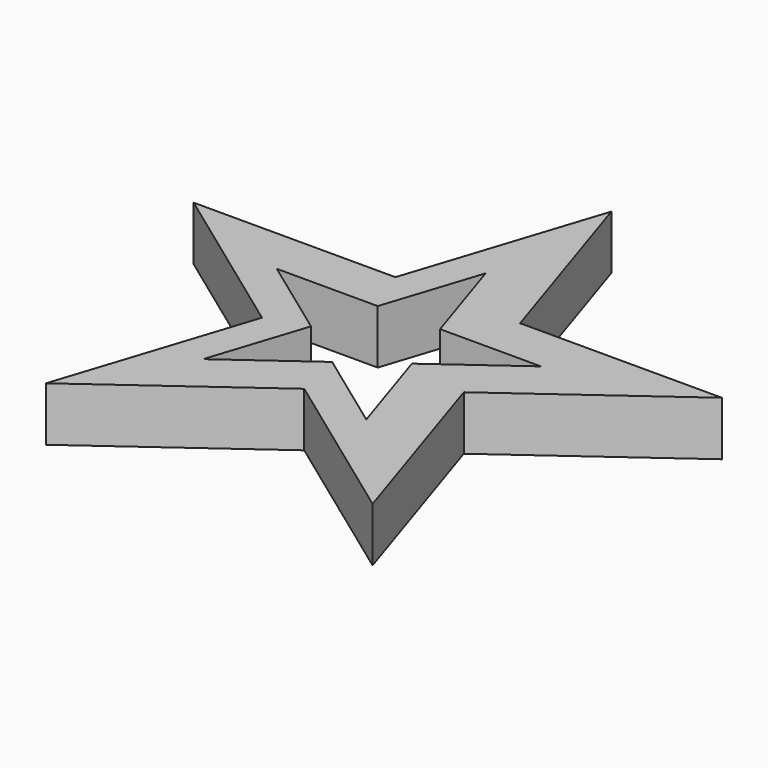
from build123d import *

# Parameters (mm, degrees)
F1_DEPTH = 10.414


with BuildPart() as f1:
    # F0 (on Top) → F1 (new body)
    with BuildSketch(Plane.XY):
        Polygon((-134.438523, 16.987797), (-146.430776, -19.920563), (-115.034649, 2.890058), (-83.638523, -19.920563), (-95.630776, 16.987797), (-64.234649, 39.798418), (-103.042396, 39.798418), (-115.034649, 76.706779), (-127.026903, 39.798418), (-165.834649, 39.798418), align=None)
        Polygon((-123.223562, 30.789773), (-117.227435, 49.243953), (-111.231308, 30.789773), (-91.827435, 30.789773), (-107.525498, 19.384462), (-101.529372, 0.930282), (-117.227435, 12.335592), (-132.925498, 0.930282), (-126.929372, 19.384462), (-142.627435, 30.789773), align=None, mode=Mode.SUBTRACT)
    extrude(amount=F1_DEPTH)


solid = f1.part
